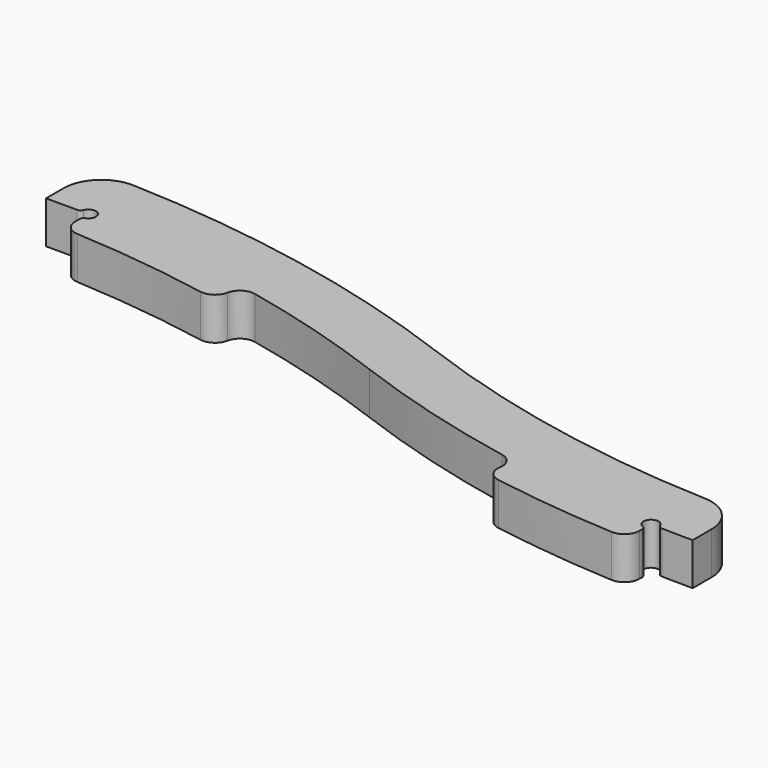
from build123d import *

# Parameters (mm, degrees)
F1_DEPTH = 28


with BuildPart() as f1:
    # F0 (on Top) → F1 (new body)
    with BuildSketch(Plane.XY):
        with BuildLine():
            ThreePointArc((151.088863, 123.89897), (201.06431, 111.228848), (250, 95))
            ThreePointArc((250, 95), (305.993798, 76.748146), (363.296713, 63.153604))
            ThreePointArc((363.296713, 63.153604), (369.640909, 58.987019), (371.231797, 51.565541))
            ThreePointArc((371.231797, 51.565541), (372.901188, 44.031096), (379.437655, 39.92874))
            ThreePointArc((379.437655, 39.92874), (420.332487, 34.318891), (461.477264, 31.00755))
            ThreePointArc((461.477264, 31.00755), (468.883772, 33.740349), (472, 40.993878))
            Line((472, 40.993878), (472, 43.130775))
            ThreePointArc((472, 43.130775), (471.487469, 44.807826), (470.125, 45.911849))
            ThreePointArc((470.125, 45.911849), (468.524875, 54.141901), (476.695989, 52.263856))
            ThreePointArc((476.695989, 52.263856), (477.759525, 50.860207), (479.427498, 50.295222))
            ThreePointArc((479.427498, 50.295222), (489.71269, 50.073809), (500, 50))
            Line((500, 50), (500, 65.445333))
            ThreePointArc((500, 65.445333), (492.989714, 82.805351), (475.890384, 90.429472))
            ThreePointArc((475.890384, 90.429472), (368.230261, 102.948573), (263.948082, 132.489345))
            ThreePointArc((263.948082, 132.489345), (146.799756, 165.628598), (25.85389, 179.558344))
            ThreePointArc((25.85389, 179.558344), (7.626849, 172.549961), (0, 154.57293))
            Line((0, 154.57293), (0, 140))
            Line((0, 140), (20.583802, 140))
            ThreePointArc((20.583802, 140), (22.260852, 140.512531), (23.364876, 141.875))
            ThreePointArc((23.364876, 141.875), (31.535534, 143.535534), (29.875, 135.364876))
            ThreePointArc((29.875, 135.364876), (28.512531, 134.260852), (28, 132.583802))
            Line((28, 132.583802), (28, 128.977965))
            ThreePointArc((28, 128.977965), (30.741376, 122.099565), (37.462475, 118.992422))
            ThreePointArc((37.462475, 118.992422), (82.678, 115.078609), (127.542926, 108.230249))
            ThreePointArc((127.542926, 108.230249), (134.972121, 109.775882), (139.177209, 116.092461))
            ThreePointArc((139.177209, 116.092461), (143.500059, 122.487412), (151.088863, 123.89897))
        make_face()
    extrude(amount=F1_DEPTH)


solid = f1.part
